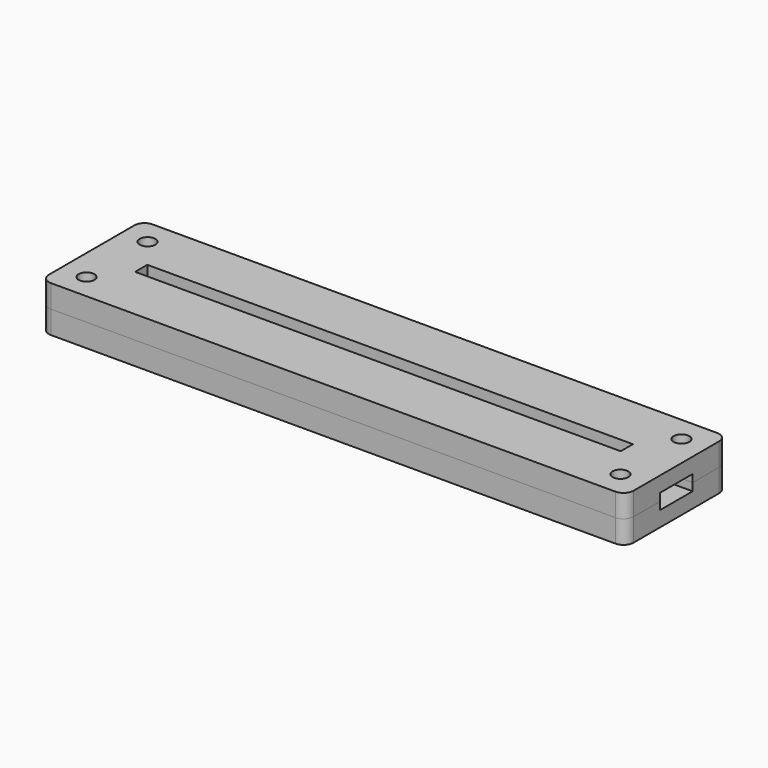
from build123d import *

# Parameters (mm, degrees)
BOX_BOTTOM_HALF_0_W     = 117
BOX_BOTTOM_HALF_0_H     = 27
BOX_BOTTOM_HALF_0_DEPTH = 5.5
SKETCH_W                = 115
SKETCH_H                = 25
PAD_DEPTH               = 3
PAD001_DEPTH            = 3
SKETCH002_W             = 115
SKETCH002_H             = 25
SKETCH002_W_2           = 95.5
SKETCH002_H_2           = 3
PAD002_DEPTH            = 3
SKETCH003_R             = 1.55
POCKET_DEPTH            = 245.060315
POLARPATTERN_COUNT      = 2
POLARPATTERN001_COUNT   = 2
POLARPATTERN002_COUNT   = 2
FILLET_R                = 2


with BuildPart() as box_bottom_half_0_body:
    # box_bottom_half_0 → box_bottom_half_0 (new body)
    with BuildSketch(Plane(origin=(-58.5, -13.5, -1), x_dir=(1, 0, 0), z_dir=(0, 0, 1))):
        with Locations((58.5, 13.5)):
            Rectangle(BOX_BOTTOM_HALF_0_W, BOX_BOTTOM_HALF_0_H)
    extrude(amount=BOX_BOTTOM_HALF_0_DEPTH)


with BuildPart() as body:
    # Sketch → Pad (new body)
    with BuildSketch(Plane.XY):
        Rectangle(SKETCH_W, SKETCH_H)
    extrude(amount=PAD_DEPTH)

    # Sketch001 (on Face6 of Pad) → Pad001 (join)
    with BuildSketch(Plane.XY.offset(3)):
        Polygon((-57.5, 12.5), (57.5, 12.5), (57.5, 4), (50, 4), (50, 5), (-50, 5), (-50, 4), (-57.5, 4), align=None)
        Polygon((-57.5, -12.5), (57.5, -12.5), (57.5, -4), (50, -4), (50, -5), (-50, -5), (-50, -4), (-57.5, -4), align=None)
    extrude(amount=PAD001_DEPTH)

    # Sketch002 (on Face12 of Pad001) → Pad002 (join)
    with BuildSketch(Plane.XY.offset(6)):
        Rectangle(SKETCH002_W, SKETCH002_H)
        Rectangle(SKETCH002_W_2, SKETCH002_H_2, mode=Mode.SUBTRACT)
    extrude(amount=PAD002_DEPTH)

    # Sketch003 (on Face26 of Pad002) → Pocket (cut, through all)
    with BuildSketch(Plane.XY.offset(9)):
        with Locations((-52.5, 7.5)):
            Circle(SKETCH003_R)
    pocket = extrude(amount=-POCKET_DEPTH, mode=Mode.SUBTRACT)

    # PolarPattern: Pocket ×2 about axis
    polarpattern_axis = Axis((0, 0, 0), (0, 1, 0))
    for i in range(1, POLARPATTERN_COUNT):
        add(pocket.rotate(polarpattern_axis, i * 360 / POLARPATTERN_COUNT), mode=Mode.SUBTRACT)

    # PolarPattern001: Pocket ×2 about axis
    polarpattern001_axis = Axis((0, 0, 0), (1, 0, 0))
    for i in range(1, POLARPATTERN001_COUNT):
        add(pocket.rotate(polarpattern001_axis, i * 360 / POLARPATTERN001_COUNT), mode=Mode.SUBTRACT)

    # PolarPattern002: Pocket ×2 about axis
    polarpattern002_axis = Axis((0, 0, 9), (0, 0, 1))
    for i in range(1, POLARPATTERN002_COUNT):
        add(pocket.rotate(polarpattern002_axis, i * 360 / POLARPATTERN002_COUNT), mode=Mode.SUBTRACT)

    # Fillet
    fillet_edges = [body.edges().sort_by_distance(p)[0] for p in [
        (57.5, 12.5, 7.5),
        (57.5, 12.5, 4.5),
        (57.5, 12.5, 1.5),
        (57.5, -12.5, 7.5),
        (-57.5, 12.5, 7.5),
        (-57.5, -12.5, 7.5),
    ]]
    fillet(fillet_edges, radius=FILLET_R)


with BuildPart() as bottom_half_0_body:
    # bottom_half_0 base: copy of Body
    add(body.part)

    # bottom_half_0: intersect box_bottom_half_0 body
    add(box_bottom_half_0_body.part, mode=Mode.INTERSECT)


with BuildPart() as top_half_0_body:
    # top_half_0 base: copy of Body
    add(body.part)

    # top_half_0: cut box_bottom_half_0 body
    add(box_bottom_half_0_body.part, mode=Mode.SUBTRACT)


solid = Compound([bottom_half_0_body.part, top_half_0_body.part])
